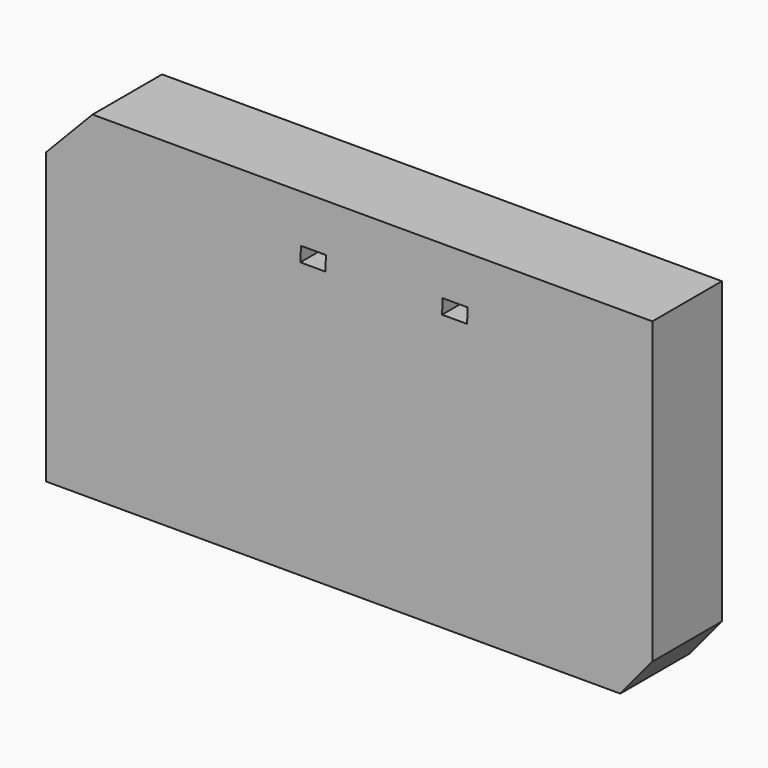
from build123d import *

# Parameters (mm, degrees)
F1_DEPTH = 25.4


with BuildPart() as f1:
    # F0 (on Front) → F1 (new body)
    with BuildSketch(Plane.XZ):
        Polygon((88.547136, 49.388889), (-74.983796, 49.388889), (-88.547136, 35.277778), (-88.547136, -49.388889), (79.179921, -49.388889), (88.547136, -38.1), align=None)
        Polygon((-14.294649, 31.119892), (-14.078641, 35.438147), (-6.774006, 35.438147), (-6.989841, 31.119892), align=None, mode=Mode.SUBTRACT)
        Polygon((27.10558, 31.119892), (27.321243, 35.438147), (34.626224, 35.438147), (34.410216, 31.119892), align=None, mode=Mode.SUBTRACT)
    extrude(amount=F1_DEPTH)


solid = f1.part
